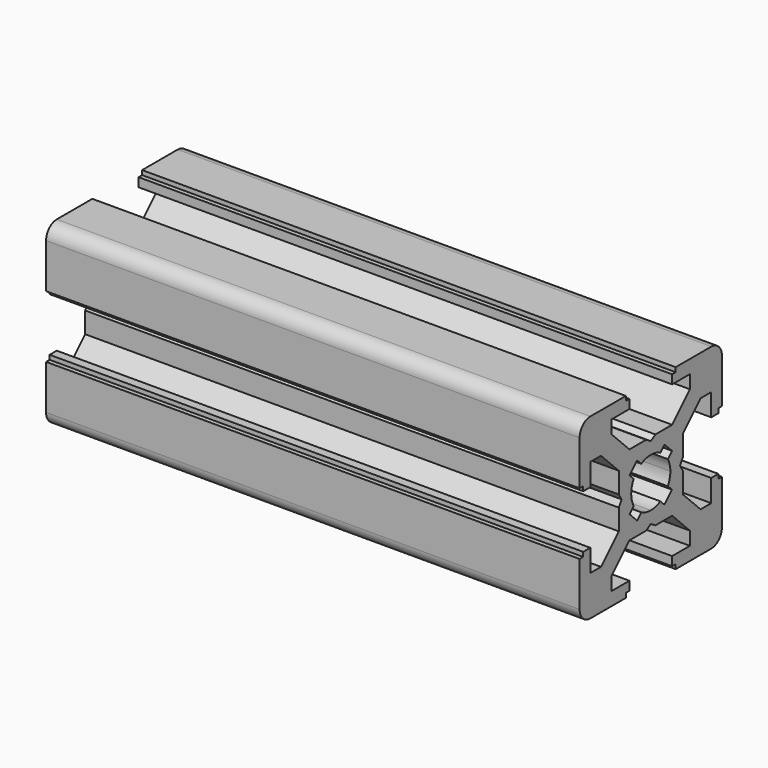
from build123d import *

# Parameters (mm, degrees)
PAD_DEPTH = 60


with BuildPart() as part:
    # Sketch → Pad (new body)
    with BuildSketch(Plane.YZ):
        with BuildLine():
            Line((0, 4.1), (0.65, 4.5))
            Line((0.65, 4.5), (3, 4.5))
            Line((3, 4.5), (5.5, 7))
            Line((5.5, 7), (5.5, 8.5))
            Line((5.5, 8.5), (3, 8.5))
            Line((3, 8.5), (3, 9.5))
            Line((3, 9.5), (3.5, 9.5))
            Line((3.5, 9.5), (3.5, 10))
            Line((3.5, 10), (8.5, 10))
            ThreePointArc((10, 8.5), (9.56066, 9.56066), (8.5, 10))
            Line((10, 8.5), (10, 3.5))
            Line((10, 3.5), (9.5, 3.5))
            Line((9.5, 3.5), (9.5, 3))
            Line((9.5, 3), (8.5, 3))
            Line((8.5, 3), (8.5, 5.5))
            Line((8.5, 5.5), (7, 5.5))
            Line((7, 5.5), (4.5, 3))
            Line((4.5, 3), (4.5, 0.65))
            Line((4.5, 0.65), (4.1, 0))
            Line((4.5, -0.65), (4.1, 0))
            Line((4.5, -3), (4.5, -0.65))
            Line((7, -5.5), (4.5, -3))
            Line((8.5, -5.5), (7, -5.5))
            Line((8.5, -3), (8.5, -5.5))
            Line((9.5, -3), (8.5, -3))
            Line((9.5, -3.5), (9.5, -3))
            Line((10, -3.5), (9.5, -3.5))
            Line((10, -8.5), (10, -3.5))
            ThreePointArc((8.5, -10), (9.56066, -9.56066), (10, -8.5))
            Line((3.5, -10), (8.5, -10))
            Line((3.5, -9.5), (3.5, -10))
            Line((3, -9.5), (3.5, -9.5))
            Line((3, -8.5), (3, -9.5))
            Line((5.5, -8.5), (3, -8.5))
            Line((5.5, -7), (5.5, -8.5))
            Line((3, -4.5), (5.5, -7))
            Line((0.65, -4.5), (3, -4.5))
            Line((0, -4.1), (0.65, -4.5))
            Line((0, -4.1), (-0.65, -4.5))
            Line((-0.65, -4.5), (-3, -4.5))
            Line((-3, -4.5), (-5.5, -7))
            Line((-5.5, -7), (-5.5, -8.5))
            Line((-5.5, -8.5), (-3, -8.5))
            Line((-3, -8.5), (-3, -9.5))
            Line((-3, -9.5), (-3.5, -9.5))
            Line((-3.5, -9.5), (-3.5, -10))
            Line((-3.5, -10), (-8.5, -10))
            ThreePointArc((-10, -8.5), (-9.56066, -9.56066), (-8.5, -10))
            Line((-10, -8.5), (-10, -3.5))
            Line((-10, -3.5), (-9.5, -3.5))
            Line((-9.5, -3.5), (-9.5, -3))
            Line((-9.5, -3), (-8.5, -3))
            Line((-8.5, -3), (-8.5, -5.5))
            Line((-8.5, -5.5), (-7, -5.5))
            Line((-7, -5.5), (-4.5, -3))
            Line((-4.5, -3), (-4.5, -0.65))
            Line((-4.5, -0.65), (-4.1, 0))
            Line((-4.5, 0.65), (-4.1, 0))
            Line((-4.5, 3), (-4.5, 0.65))
            Line((-7, 5.5), (-4.5, 3))
            Line((-8.5, 5.5), (-7, 5.5))
            Line((-8.5, 3), (-8.5, 5.5))
            Line((-9.5, 3), (-8.5, 3))
            Line((-9.5, 3.5), (-9.5, 3))
            Line((-10, 3.5), (-9.5, 3.5))
            Line((-10, 8.5), (-10, 3.5))
            ThreePointArc((-8.5, 10), (-9.56066, 9.56066), (-10, 8.5))
            Line((-3.5, 10), (-8.5, 10))
            Line((-3.5, 9.5), (-3.5, 10))
            Line((-3, 9.5), (-3.5, 9.5))
            Line((-3, 8.5), (-3, 9.5))
            Line((-5.5, 8.5), (-3, 8.5))
            Line((-5.5, 7), (-5.5, 8.5))
            Line((-3, 4.5), (-5.5, 7))
            Line((-0.65, 4.5), (-3, 4.5))
            Line((0, 4.1), (-0.65, 4.5))
        make_face()
        with BuildLine():
            Line((1.340499, 2.401159), (1.923239, 2.983899))
            Line((1.923239, 2.983899), (2.983899, 1.923239))
            Line((2.983899, 1.923239), (2.401159, 1.340499))
            ThreePointArc((2.75, 0), (2.661361, 0.692573), (2.401159, 1.340499))
            ThreePointArc((2.401164, -1.34049), (2.661362, -0.692568), (2.75, 0))
            Line((2.983904, -1.92323), (2.401164, -1.34049))
            Line((1.923247, -2.983894), (2.983904, -1.92323))
            Line((1.340507, -2.401154), (1.923247, -2.983894))
            ThreePointArc((0, -2.75), (0.692577, -2.66136), (1.340507, -2.401154))
            ThreePointArc((-1.340507, -2.401154), (-0.692577, -2.66136), (0, -2.75))
            Line((-1.340507, -2.401154), (-1.923247, -2.983894))
            Line((-1.923247, -2.983894), (-2.983904, -1.92323))
            Line((-2.983904, -1.92323), (-2.401164, -1.34049))
            ThreePointArc((-2.75, 0), (-2.661362, -0.692568), (-2.401164, -1.34049))
            ThreePointArc((-2.401159, 1.340499), (-2.661361, 0.692572), (-2.75, 0))
            Line((-2.983899, 1.923239), (-2.401159, 1.340499))
            Line((-1.923239, 2.983899), (-2.983899, 1.923239))
            Line((-1.340499, 2.401159), (-1.923239, 2.983899))
            ThreePointArc((0, 2.75), (-0.692573, 2.661361), (-1.340499, 2.401159))
            ThreePointArc((1.340499, 2.401159), (0.692573, 2.661361), (0, 2.75))
        make_face(mode=Mode.SUBTRACT)
    extrude(amount=PAD_DEPTH)


solid = part.part
